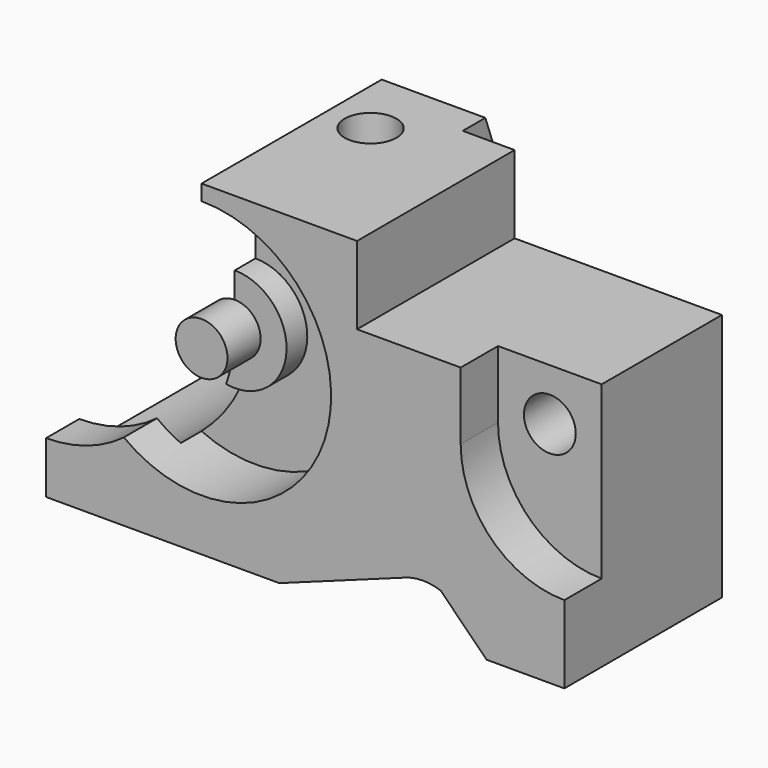
from build123d import *

# Parameters (mm, degrees)
F0_W      = 100
F0_H      = 50
F1_DEPTH  = 63
F2_W      = 50
F2_H      = 12
F3_DEPTH  = 63.001
F5_DEPTH  = 50.001
F6_R      = 25
F7_DEPTH  = 13
F8_R      = 10
F8_R_2    = 5
F9_DEPTH  = 5
F10_DEPTH = 13
F12_DEPTH = 42
F14_DEPTH = 25
F16_DEPTH = 70.001
F17_R     = 5
F18_DEPTH = 63.001
F19_W     = 40
F19_H     = 38
F20_DEPTH = 15
F22_DEPTH = 9
F23_R     = 5
F24_DEPTH = 41.001


with BuildPart() as f1:
    # F0 (on Top) → F1 (new body)
    with BuildSketch(Plane.XY):
        Rectangle(F0_W, F0_H)
    extrude(amount=F1_DEPTH)

    # F2 (on face) → F3 (cut, through all)
    with BuildSketch(Plane.XY.offset(63)):
        with Locations((25, 19)):
            Rectangle(F2_W, F2_H)
    extrude(amount=-F3_DEPTH, mode=Mode.SUBTRACT)

    # F4 (on face) → F5 (cut, through all)
    with BuildSketch(Plane.XZ.offset(25)):
        with BuildLine():
            Line((19.311086, 8.848512), (-5, 0))
            Line((-5, 0), (35, 0))
            Line((35, 0), (26.151488, 8.848512))
            ThreePointArc((26.151488, 8.848512), (22.731287, 9.451585), (19.311086, 8.848512))
        make_face()
    extrude(amount=-F5_DEPTH, mode=Mode.SUBTRACT)

    # F6 (on face) → F7 (cut)
    with BuildSketch(Plane.XZ.offset(25)):
        with Locations((-20, 35)):
            Circle(F6_R)
    extrude(amount=-F7_DEPTH, mode=Mode.SUBTRACT)

    # F8 (on face) → F9 (join)
    with BuildSketch(Plane.XZ.offset(12)):
        with Locations((-20, 35)):
            Circle(F8_R)
        with Locations((-20, 35)):
            Circle(F8_R_2, mode=Mode.SUBTRACT)
    extrude(amount=F9_DEPTH)

    # F8 (on face) → F10 (join)
    with BuildSketch(Plane.XZ.offset(12)):
        with Locations((-20, 35)):
            Circle(F8_R_2)
    extrude(amount=F10_DEPTH)

    # F11 (on face) → F12 (cut)
    with BuildSketch(Plane(origin=(0, 25, 0), x_dir=(-1, 0, 0), z_dir=(0, 1, 0))):
        with BuildLine():
            Line((20, 63), (20, 35))
            ThreePointArc((20, 35), (28.786797, 13.786797), (50, 5))
            Line((50, 5), (50, 63))
            Line((50, 63), (20, 63))
        make_face()
    extrude(amount=-F12_DEPTH, mode=Mode.SUBTRACT)

    # F13 (on face) → F14 (cut)
    with BuildSketch(Plane.XZ.offset(25)):
        with BuildLine():
            Line((-50, 63), (-50, 10))
            ThreePointArc((-50, 10), (-42.094306, 11.282918), (-35, 15))
            ThreePointArc((-35, 15), (-43.717082, 42.905694), (-20, 60))
            Line((-20, 60), (-20, 63))
            Line((-20, 63), (-50, 63))
        make_face()
    extrude(amount=-F14_DEPTH, mode=Mode.SUBTRACT)

    # F15 (on face) → F16 (cut, through all)
    with BuildSketch(Plane(origin=(-20, 0, 0), x_dir=(0, -1, 0), z_dir=(-1, 0, 0))):
        Polygon((-25, 63), (-25, 45), (-18.448536, 63), align=None)
    extrude(amount=-F16_DEPTH, mode=Mode.SUBTRACT)

    # F17 (on face) → F18 (cut, through all)
    with BuildSketch(Plane.XY.offset(63)):
        with Locations((-11.390058, 5)):
            Circle(F17_R)
    extrude(amount=-F18_DEPTH, mode=Mode.SUBTRACT)

    # F19 (on face) → F20 (cut)
    with BuildSketch(Plane.XY.offset(63)):
        with Locations((30, -6)):
            Rectangle(F19_W, F19_H)
    extrude(amount=-F20_DEPTH, mode=Mode.SUBTRACT)

    # F21 (on face) → F22 (cut)
    with BuildSketch(Plane.XZ.offset(25)):
        with BuildLine():
            Line((30, 48), (30, 35))
            ThreePointArc((30, 35), (35.857864, 20.857864), (50, 15))
            Line((50, 15), (50, 48))
            Line((50, 48), (30, 48))
        make_face()
    extrude(amount=-F22_DEPTH, mode=Mode.SUBTRACT)

    # F23 (on face) → F24 (cut, through all)
    with BuildSketch(Plane.XZ.offset(16)):
        with Locations((40, 38)):
            Circle(F23_R)
    extrude(amount=-F24_DEPTH, mode=Mode.SUBTRACT)


solid = f1.part
